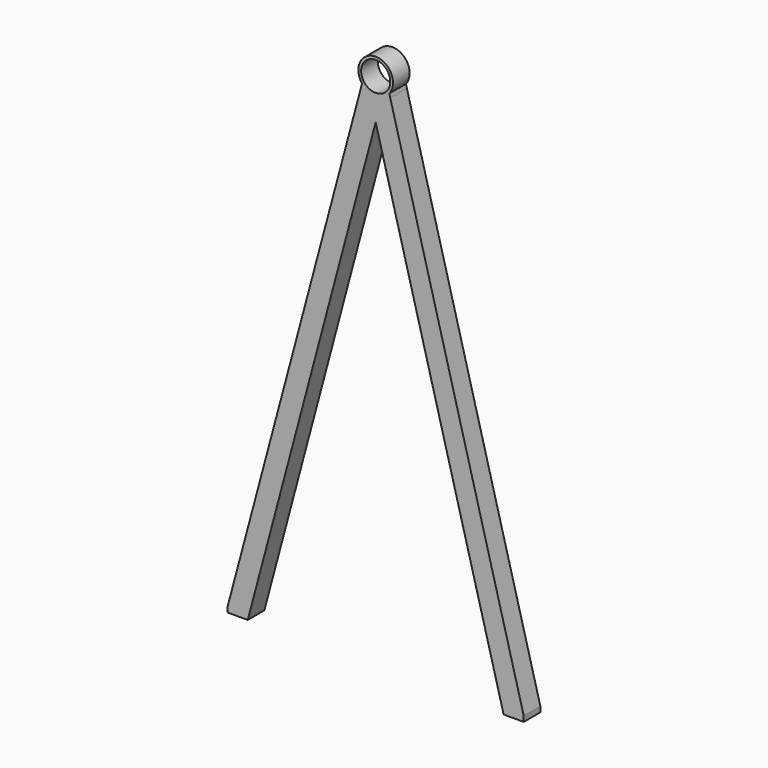
from build123d import *

# Parameters (mm, degrees)
F0_R     = 21
F1_DEPTH = 30


with BuildPart() as f1:
    # F0 (on Front) → F1 (new body)
    with BuildSketch(Plane.XZ):
        with BuildLine():
            Line((20.93509, 729.709066), (19.646777, 734.540241))
            ThreePointArc((19.646777, 734.540241), (15, 730), (9.340271, 726.810361))
            Line((9.340271, 726.810361), (8.051958, 721.979187))
            Line((8.051958, 721.979187), (0, 691.784345))
            Line((0, 691.784345), (184.475825, 0))
            Line((184.475825, 0), (213.462873, 0))
            Line((213.462873, 0), (213.462873, 7.72988))
            Line((213.462873, 7.72988), (20.93509, 729.709066))
        make_face()
        with BuildLine():
            Line((-20.93509, 729.709066), (-213.462873, 7.72988))
            Line((-213.462873, 7.72988), (-213.462873, 0))
            Line((-213.462873, 0), (-184.475825, 0))
            Line((-184.475825, 0), (0, 691.784345))
            Line((0, 691.784345), (-8.051958, 721.979187))
            Line((-8.051958, 721.979187), (-9.340271, 726.810361))
            ThreePointArc((-9.340271, 726.810361), (-15, 730), (-19.646777, 734.540241))
            Line((-19.646777, 734.540241), (-20.93509, 729.709066))
        make_face()
        with BuildLine():
            ThreePointArc((19.646777, 734.540241), (0, 775), (-19.646777, 734.540241))
            ThreePointArc((-19.646777, 734.540241), (-15, 730), (-9.340271, 726.810361))
            Line((-9.340271, 726.810361), (-8.051958, 721.979187))
            Line((-8.051958, 721.979187), (0, 691.784345))
            Line((0, 691.784345), (8.051958, 721.979187))
            Line((8.051958, 721.979187), (9.340271, 726.810361))
            ThreePointArc((9.340271, 726.810361), (15, 730), (19.646777, 734.540241))
        make_face()
        with Locations((0, 750)):
            Circle(F0_R, mode=Mode.SUBTRACT)
    extrude(amount=F1_DEPTH)


solid = f1.part
